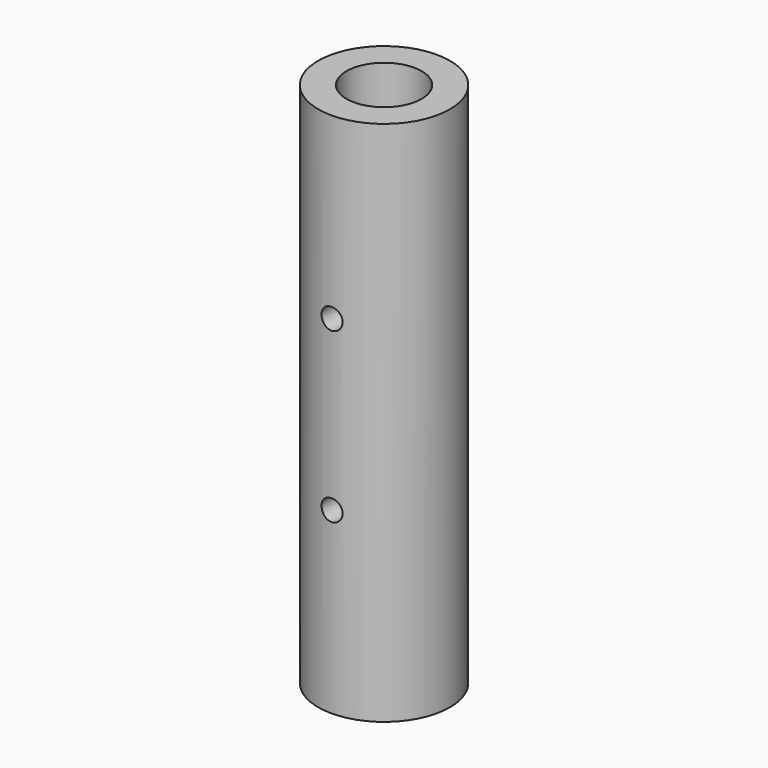
from build123d import *

# Parameters (mm, degrees)
F0_R     = 11.1125
F0_R_2   = 6.35
F1_DEPTH = 44.45
F3_R     = 1.778
F4_DEPTH = 22.226


with BuildPart() as f1:
    # F0 (on Top) → F1 (new body, symmetric)
    with BuildSketch(Plane.XY):
        Circle(F0_R)
        Circle(F0_R_2, mode=Mode.SUBTRACT)
    extrude(amount=F1_DEPTH, both=True)

    # F3 (on offset) → F4 (cut, through all)
    with BuildSketch(Plane.XZ.offset(11.1125)):
        with Locations((0, 14.224)):
            Circle(F3_R)
        with Locations((0, -14.224)):
            Circle(F3_R)
    extrude(amount=-F4_DEPTH, mode=Mode.SUBTRACT)


solid = f1.part
